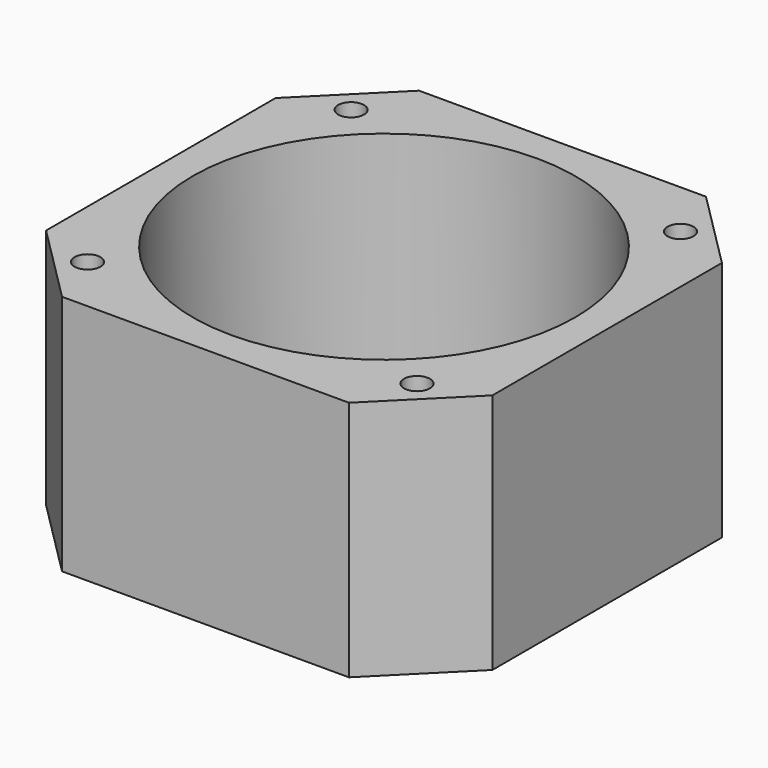
from build123d import *

# Parameters (mm, degrees)
SKETCH067_W     = 42
SKETCH067_H     = 42
PAD029_DEPTH    = 22.75
CHAMFER013_SIZE = 7.5
SKETCH072_R     = 1.22
POCKET024_DEPTH = 22.751
SKETCH079_R     = 18
POCKET029_DEPTH = 22.751


with BuildPart() as part:
    # Sketch067 → Pad029 (new body)
    with BuildSketch(Plane.XY):
        Rectangle(SKETCH067_W, SKETCH067_H)
    extrude(amount=PAD029_DEPTH)

    # Chamfer013
    chamfer013_edges = [part.edges().sort_by_distance(p)[0] for p in [
        (-21, -21, 11.375),
        (-21, 21, 11.375),
        (21, -21, 11.375),
        (21, 21, 11.375),
    ]]
    chamfer(chamfer013_edges, length=CHAMFER013_SIZE)

    # Sketch072 (on Face2 of Chamfer013) → Pocket024 (cut, through all)
    with BuildSketch(Plane(origin=(0, 0, 0), x_dir=(1, 0, 0), z_dir=(0, 0, -1))):
        with Locations((-15.5, 15.5)):
            Circle(SKETCH072_R)
        with Locations((15.5, 15.5)):
            Circle(SKETCH072_R)
        with Locations((15.5, -15.5)):
            Circle(SKETCH072_R)
        with Locations((-15.5, -15.5)):
            Circle(SKETCH072_R)
    extrude(amount=-POCKET024_DEPTH, mode=Mode.SUBTRACT)

    # Sketch079 (on Face5 of Pocket024) → Pocket029 (cut, through all)
    with BuildSketch(Plane.XY.offset(22.75)):
        Circle(SKETCH079_R)
    extrude(amount=-POCKET029_DEPTH, mode=Mode.SUBTRACT)


with BuildPart() as part_1:
    # Body017 placement: moved
    add(part.part.moved(Location((0, 0, 9.6))))


solid = part_1.part
